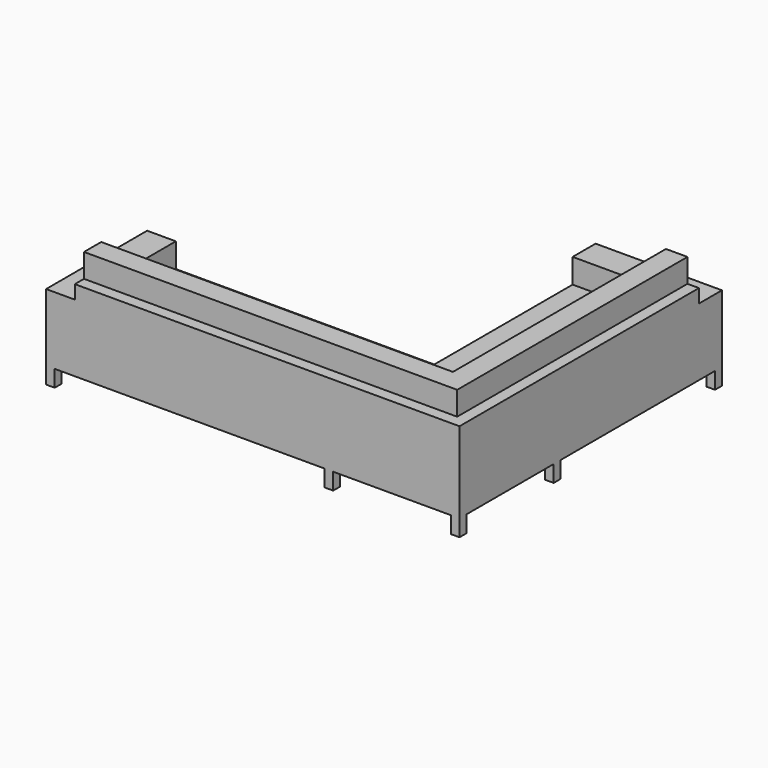
from build123d import *

# Parameters (mm, degrees)
F1_DEPTH = 300
F2_W     = 60
F2_H     = 60
F3_DEPTH = 116
F4_W     = 880
F4_H     = 200
F4_W_2   = 200
F4_H_2   = 880
F5_DEPTH = 170
F7_DEPTH = 265
F9_DEPTH = 430


with BuildPart() as f1:
    # F0 (on Top) → F1 (new body)
    with BuildSketch(Plane.XY):
        Polygon((0, 1405), (0, 0), (-2000, 0), (-2000, -880), (880, -880), (880, 1405), align=None)
    extrude(amount=F1_DEPTH)

    # F2 (on face) → F3 (join)
    with BuildSketch(Plane(origin=(0, 0, 0), x_dir=(1, 0, 0), z_dir=(0, 0, -1))):
        with Locations((-1970, 850)):
            Rectangle(F2_W, F2_H)
        with Locations((-1970, 30)):
            Rectangle(F2_W, F2_H)
        with Locations((-30, 30)):
            Rectangle(F2_W, F2_H)
        with Locations((-30, 850)):
            Rectangle(F2_W, F2_H)
        with Locations((850, 850)):
            Rectangle(F2_W, F2_H)
        with Locations((850, 30)):
            Rectangle(F2_W, F2_H)
        with Locations((30, -1375)):
            Rectangle(F2_W, F2_H)
        with Locations((850, -1375)):
            Rectangle(F2_W, F2_H)
    extrude(amount=F3_DEPTH)

    # F4 (on face) → F5 (join)
    with BuildSketch(Plane.XY.offset(300)):
        with Locations((440, 1305)):
            Rectangle(F4_W, F4_H)
        with Locations((-1900, -440)):
            Rectangle(F4_W_2, F4_H_2)
    extrude(amount=F5_DEPTH)

    # F6 (on face) → F7 (join)
    with BuildSketch(Plane.XY.offset(300)):
        Polygon((880, -880), (880, 1205), (800, 1205), (800, -800), (-1800, -800), (-1800, -880), (800, -880), align=None)
    extrude(amount=F7_DEPTH)

    # F8 (on face) → F9 (join)
    with BuildSketch(Plane.XY.offset(300)):
        Polygon((650, -800), (800, -800), (800, 1205), (650, 1205), (650, -650), (-1800, -650), (-1800, -800), align=None)
    extrude(amount=F9_DEPTH)


solid = f1.part
